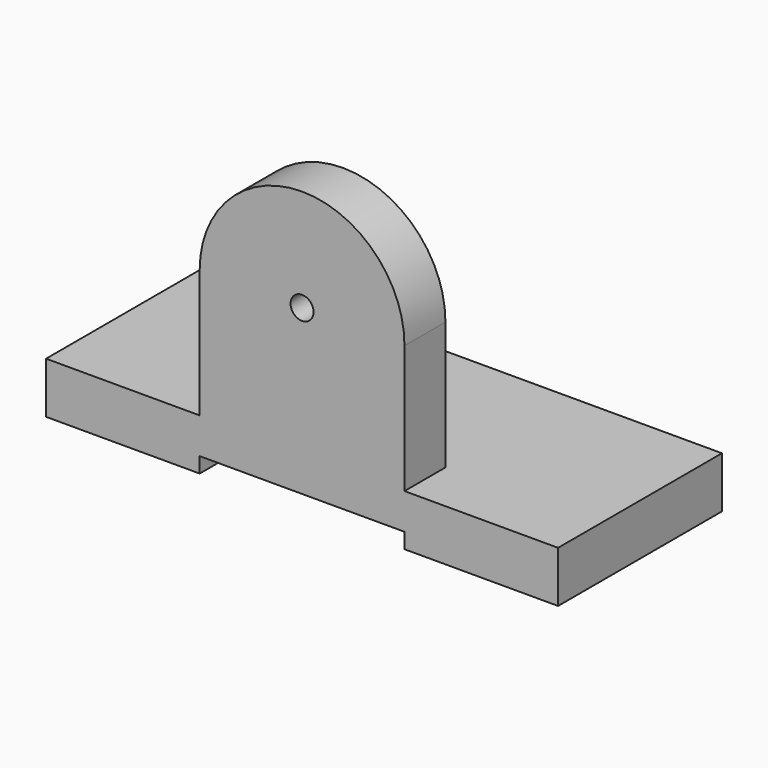
from build123d import *

# Parameters (mm, degrees)
F0_W     = 100
F0_H     = 40
F1_DEPTH = 10
F2_W     = 40
F2_H     = 10
F3_DEPTH = 10
F4_W     = 40
F4_H     = 3
F5_DEPTH = 40.001
F6_R     = 2.25
F7_DEPTH = 40.001


with BuildPart() as f1:
    # F0 (on Top) → F1 (new body)
    with BuildSketch(Plane.XY):
        with Locations((-50, 20)):
            Rectangle(F0_W, F0_H)
    extrude(amount=F1_DEPTH)

    # F2 (on face) → F3 (join)
    with BuildSketch(Plane.XZ):
        with BuildLine():
            Line((-70, 35), (-70, 10))
            Line((-70, 10), (-30, 10))
            Line((-30, 10), (-30, 35))
            ThreePointArc((-30, 35), (-50, 55), (-70, 35))
        make_face()
        with Locations((-50, 5)):
            Rectangle(F2_W, F2_H)
    extrude(amount=-F3_DEPTH)

    # F4 (on face) → F5 (cut, through all)
    with BuildSketch(Plane.XZ):
        with Locations((-50, 1.5)):
            Rectangle(F4_W, F4_H)
    extrude(amount=-F5_DEPTH, mode=Mode.SUBTRACT)

    # F6 (on face) → F7 (cut, through all)
    with BuildSketch(Plane.XZ):
        with Locations((-50, 35)):
            Circle(F6_R)
    extrude(amount=-F7_DEPTH, mode=Mode.SUBTRACT)


solid = f1.part
